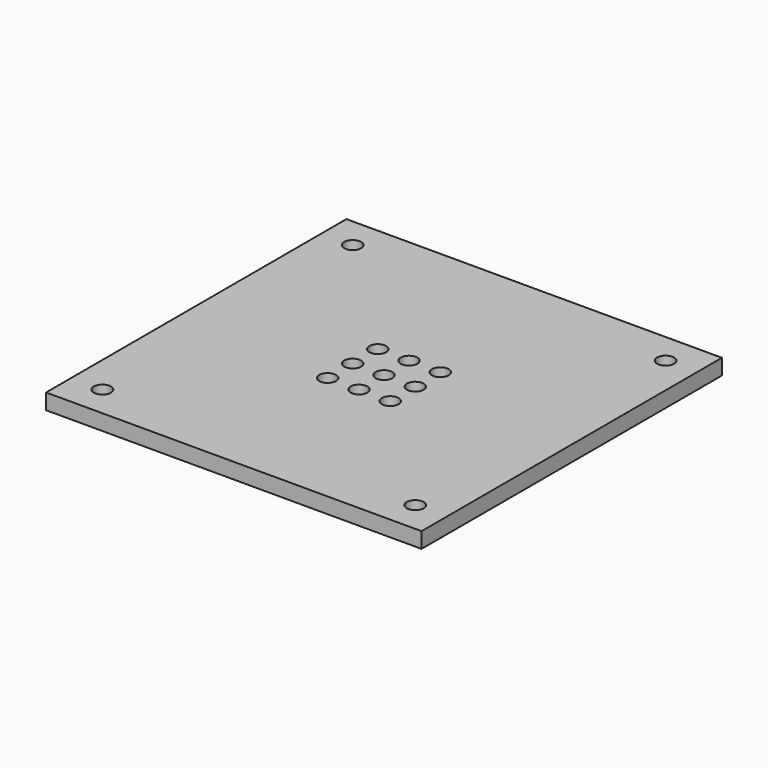
from build123d import *

# Parameters (mm, degrees)
F0_W     = 76.2
F0_H     = 76.2
F0_R     = 1.7272
F0_R_2   = 1.69926
F0_R_3   = 1.7018
F1_DEPTH = 3.175


with BuildPart() as f1:
    # F0 (on Top) → F1 (new body)
    with BuildSketch(Plane.XY):
        Rectangle(F0_W, F0_H)
        with Locations((-31.75, -31.75)):
            Circle(F0_R, mode=Mode.SUBTRACT)
        with Locations((-6.35, -6.35)):
            Circle(F0_R_2, mode=Mode.SUBTRACT)
        with Locations((31.75, -31.75)):
            Circle(F0_R, mode=Mode.SUBTRACT)
        with Locations((0, -6.35)):
            Circle(F0_R_2, mode=Mode.SUBTRACT)
        with Locations((6.35, -6.35)):
            Circle(F0_R_2, mode=Mode.SUBTRACT)
        with Locations((-6.35, 0)):
            Circle(F0_R_2, mode=Mode.SUBTRACT)
        with Locations((-6.35, 6.35)):
            Circle(F0_R_3, mode=Mode.SUBTRACT)
        with Locations((-31.75, 31.75)):
            Circle(F0_R, mode=Mode.SUBTRACT)
        Circle(F0_R_2, mode=Mode.SUBTRACT)
        with Locations((6.35, 0)):
            Circle(F0_R_2, mode=Mode.SUBTRACT)
        with Locations((0, 6.35)):
            Circle(F0_R_2, mode=Mode.SUBTRACT)
        with Locations((6.35, 6.35)):
            Circle(F0_R_2, mode=Mode.SUBTRACT)
        with Locations((31.75, 31.757522)):
            Circle(F0_R, mode=Mode.SUBTRACT)
    extrude(amount=F1_DEPTH)


solid = f1.part
